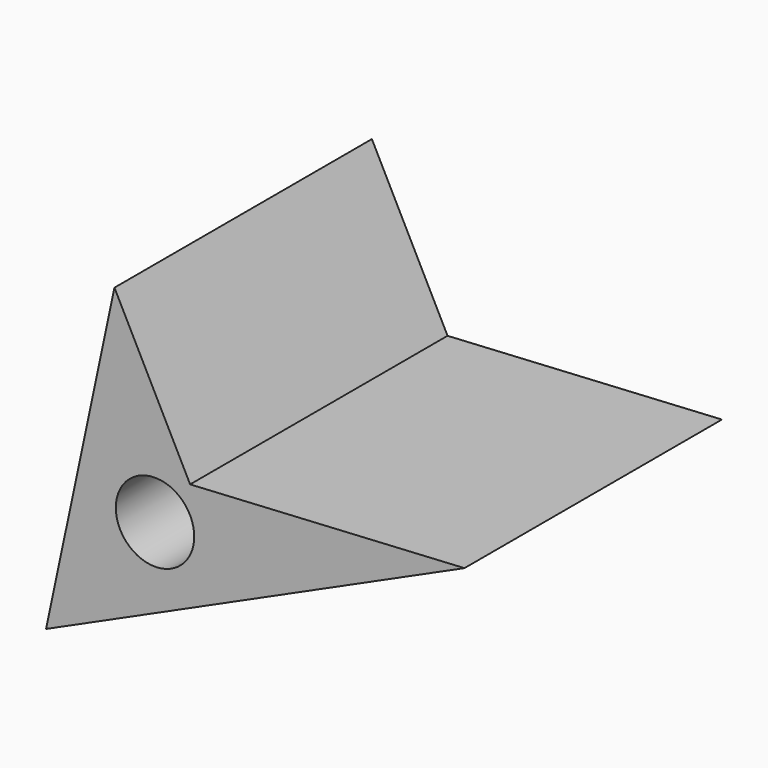
from build123d import *

# Parameters (mm, degrees)
F1_DEPTH = 101.6
F2_R     = 11.747271
F3_DEPTH = 101.6
F4_R     = 12.378993
F5_DEPTH = 101.6


with BuildPart() as f1:
    # F0 (on Front) → F1 (new body)
    with BuildSketch(Plane.XZ):
        Polygon((-18.419569, 4.604892), (-42.307448, 51.51723), (-63.892879, -50.366007), (68.209969, 9.49759), align=None)
    extrude(amount=F1_DEPTH)

    # F2 (on face) → F3 (join)
    with BuildSketch(Plane(origin=(0, 0, 0), x_dir=(-1, 0, 0), z_dir=(0, 1, 0))):
        with Locations((29.212283, -10.073202)):
            Circle(F2_R)
    extrude(amount=-F3_DEPTH)

    # F4 (on face) → F5 (cut)
    with BuildSketch(Plane(origin=(0, 0, 0), x_dir=(-1, 0, 0), z_dir=(0, 1, 0))):
        with Locations((29.500088, -9.49759)):
            Circle(F4_R)
    extrude(amount=-F5_DEPTH, mode=Mode.SUBTRACT)


solid = f1.part
